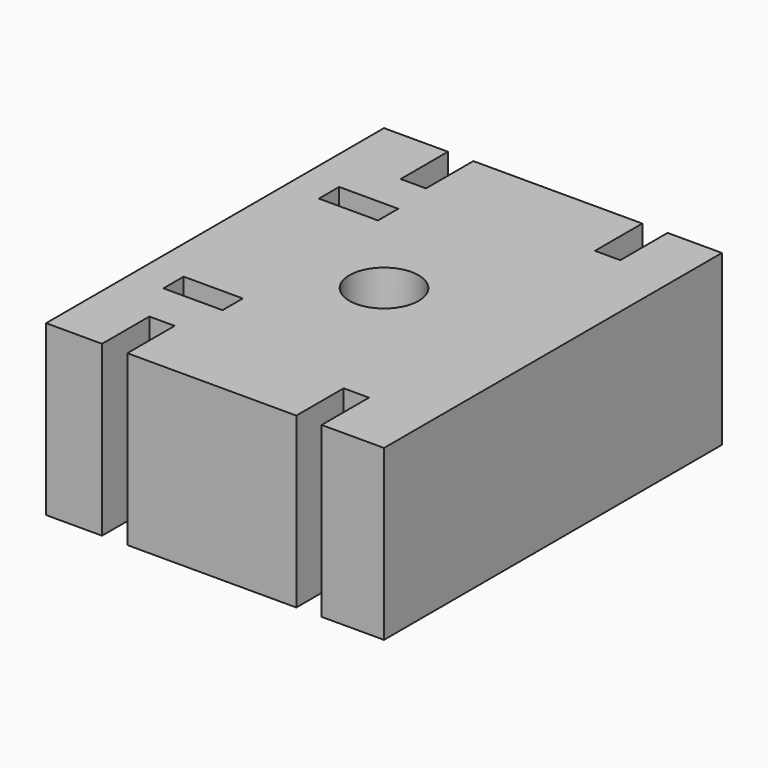
from build123d import *

# Parameters (mm, degrees)
F0_W     = 7
F0_H     = 3
F0_R     = 4.1
F1_DEPTH = 20
F3_DEPTH = 6


with BuildPart() as f1:
    # F0 (on Top) → F1 (new body)
    with BuildSketch(Plane.XY):
        Polygon((12.621989, -25), (20, -25), (20, 25), (13.570786, 25), (13.570786, 18), (10.570786, 18), (10.570786, 25), (-9.429214, 25), (-9.429214, 18), (-12.429214, 18), (-12.429214, 25), (-20, 25), (-20, -25), (-13.378011, -25), (-13.378011, -18), (-10.378011, -18), (-10.378011, -25), (9.621989, -25), (9.621989, -18), (12.621989, -18), align=None)
        with Locations((-12.386166, -11.283198)):
            Rectangle(F0_W, F0_H, mode=Mode.SUBTRACT)
        with Locations((-12.386166, 11.716802)):
            Rectangle(F0_W, F0_H, mode=Mode.SUBTRACT)
        Circle(F0_R, mode=Mode.SUBTRACT)
    extrude(amount=F1_DEPTH)

    # F2 (on face) → F3 (cut)
    with BuildSketch(Plane(origin=(0, 0, 0), x_dir=(1, 0, 0), z_dir=(0, 0, -1))):
        Polygon((3.8399, -6.674216), (7.699991, -0.011657), (3.860091, 6.66256), (-3.8399, 6.674216), (-7.699991, 0.011657), (-3.860091, -6.66256), align=None)
    extrude(amount=-F3_DEPTH, mode=Mode.SUBTRACT)


solid = f1.part
